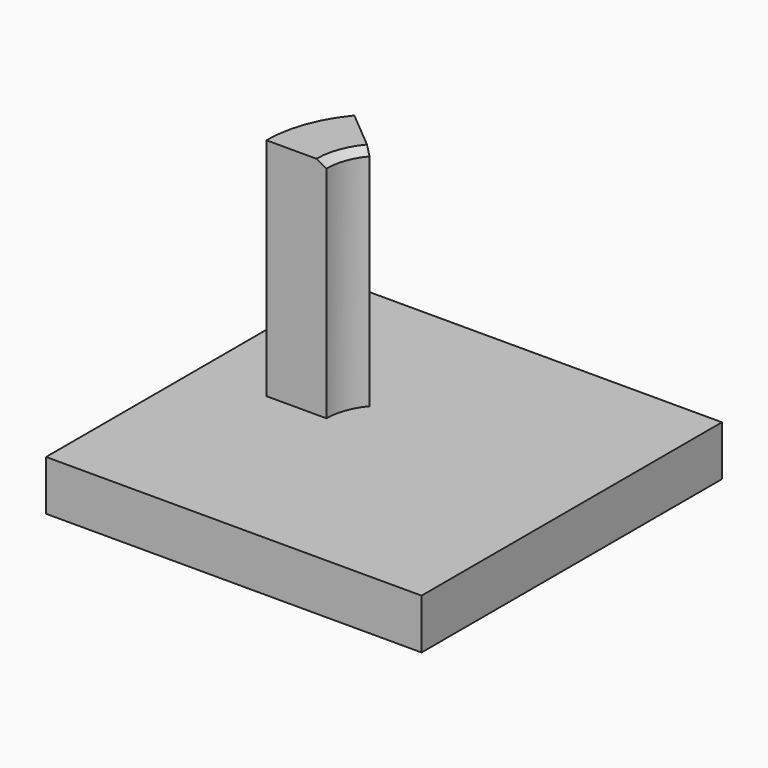
from build123d import *

# Parameters (mm, degrees)
F0_W     = 75
F0_H     = 75
F1_DEPTH = 10
F2_W     = 10
F2_H     = 45
F3_ANGLE = 40


with BuildPart() as f1:
    # F0 (on Top) → F1 (new body)
    with BuildSketch(Plane.XY):
        Rectangle(F0_W, F0_H)
    extrude(amount=F1_DEPTH)

    # F2 (on Front) → F3 (revolve)
    with BuildSketch(Plane.XZ):
        with Locations((-18.5, 32.5)):
            Rectangle(F2_W, F2_H)
        Polygon((-11.5, 53.936581), (-13.5, 55), (-13.5, 10), (-11.5, 10), align=None)
    revolve(axis=Axis((0, 0, 34.402292), (0, 0, -1)), revolution_arc=F3_ANGLE)


solid = f1.part
